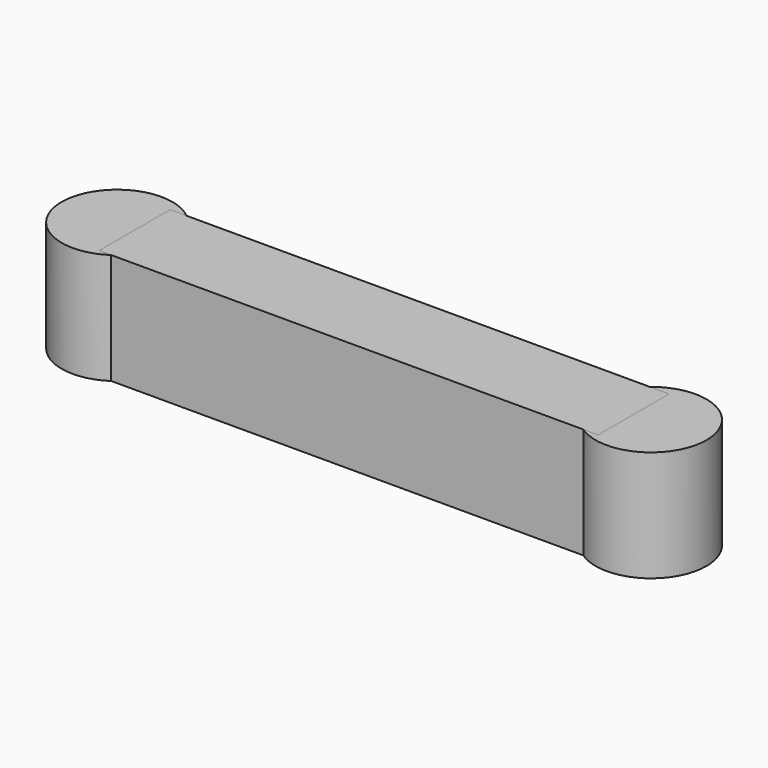
from build123d import *

# Parameters (mm, degrees)
F1_R     = 12.7
F2_DEPTH = 25.4
F0_W     = 114.3
F0_H     = 20.32


with BuildPart() as f2:
    # F1 (on Top) → F2 (new body)
    with BuildSketch(Plane.XY):
        with Locations((-45.6172116101, -24.8951986432)):
            Circle(F1_R)
    extrude(amount=F2_DEPTH)


with BuildPart() as f2b:
    # F1 (on Top) → F2, piece 2 (new body)
    with BuildSketch(Plane.XY):
        with Locations((76.700232923, -24.8951986432)):
            Circle(F1_R)
    extrude(amount=F2_DEPTH)


with BuildPart() as f2c:
    # F0 (on Top) → F2, piece 3 (new body)
    with BuildSketch(Plane.XY):
        with Locations((15.8498745799, -25.2698025963)):
            Rectangle(F0_W, F0_H)
    extrude(amount=F2_DEPTH)


solid = Compound([f2.part, f2b.part, f2c.part])
